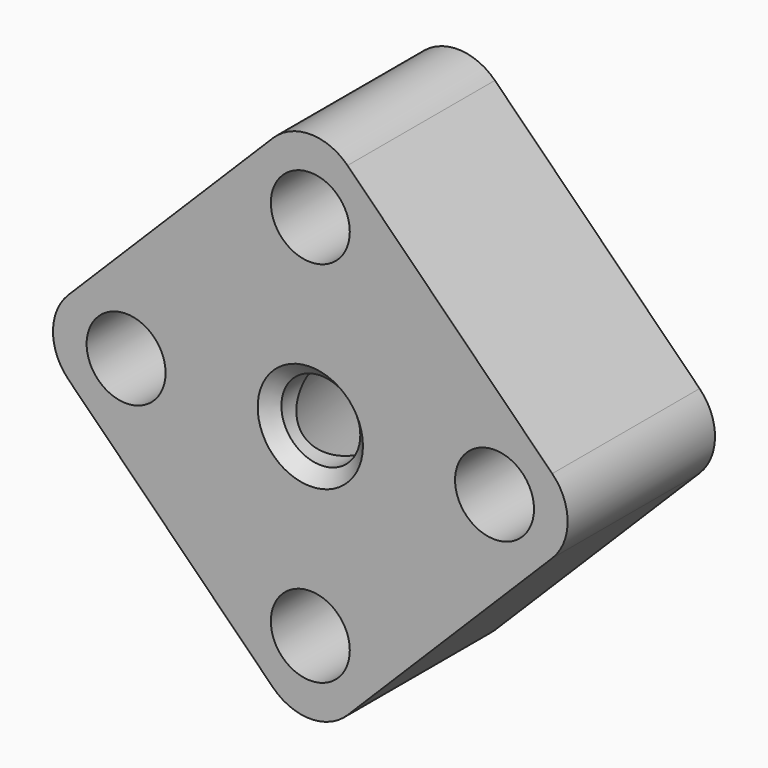
from build123d import *

# Parameters (mm, degrees)
F0_R     = 1.5
F1_DEPTH = 7
F2_R     = 2
F3_DEPTH = 7
F4_SIZE  = 0.5


with BuildPart() as f1:
    # F0 (on Front) → F1 (new body)
    with BuildSketch(Plane.XZ):
        with BuildLine():
            Line((-9.192388, -1.414214), (-1.414214, -9.192388))
            ThreePointArc((-1.414214, -9.192388), (0, -9.778175), (1.414214, -9.192388))
            Line((1.414214, -9.192388), (9.192388, -1.414214))
            ThreePointArc((9.192388, -1.414214), (9.778175, 0), (9.192388, 1.414214))
            Line((9.192388, 1.414214), (1.414214, 9.192388))
            ThreePointArc((1.414214, 9.192388), (0, 9.778175), (-1.414214, 9.192388))
            Line((-1.414214, 9.192388), (-9.192388, 1.414214))
            ThreePointArc((-9.192388, 1.414214), (-9.778175, 0), (-9.192388, -1.414214))
        make_face()
        with Locations((0, -7)):
            Circle(F0_R, mode=Mode.SUBTRACT)
        with Locations((-7, 0)):
            Circle(F0_R, mode=Mode.SUBTRACT)
        Circle(F0_R, mode=Mode.SUBTRACT)
        with Locations((7, 0)):
            Circle(F0_R, mode=Mode.SUBTRACT)
        with Locations((0, 7)):
            Circle(F0_R, mode=Mode.SUBTRACT)
    extrude(amount=F1_DEPTH)

    # F2 (on face) → F3 (cut)
    with BuildSketch(Plane(origin=(-5.303301, 0, -5.303301), x_dir=(0.707107, 0, -0.707107), z_dir=(-0.707107, 0, -0.707107))):
        with Locations((0, 4)):
            Circle(F2_R)
    extrude(amount=-F3_DEPTH, mode=Mode.SUBTRACT)

    # F4
    f4_edges = [f1.edges().sort_by_distance(p)[0] for p in [
        (-1.5, 0, 7),
        (-8.5, 0, 0),
        (-1.5, 0, -7),
        (5.5, 0, 0),
        (-1.5, -7, 0),
        (-6.717514, -4, -3.889087),
    ]]
    chamfer(f4_edges, length=F4_SIZE)


solid = f1.part
